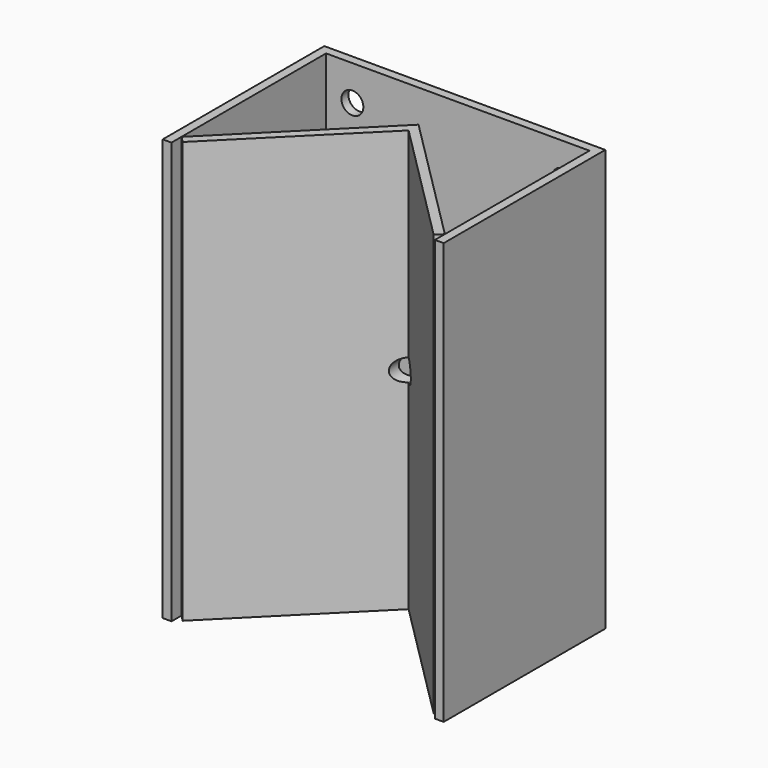
from build123d import *

# Parameters (mm, degrees)
F1_DEPTH = 304.8
F4_DEPTH = 304.8
F6_D     = 15.875
F6_DEPTH = 12.7
F8_D     = 15.875
F8_2_D   = 15.875


with BuildPart() as f1:
    # F0 (on Top) → F1 (new body)
    with BuildSketch(Plane.XY):
        Polygon((-95.25, -139.7), (-95.25, 0), (95.25, 0), (95.25, -139.7), (101.6, -139.7), (101.6, 6.35), (-101.6, 6.35), (-101.6, -139.7), align=None)
    extrude(amount=F1_DEPTH)

    # F6
    with Locations(Plane(origin=(0, 6.35, 0), x_dir=(-1, 0, 0), z_dir=(0, 1, 0))):
        with Locations((-76.2, 279.4), (76.2, 279.4), (-76.2, 25.4), (76.2, 25.4)):
            Hole(F6_D / 2, depth=F6_DEPTH)

    # F8 (through all)
    with Locations(Plane(origin=(0, 6.35, 0), x_dir=(-1, 0, 0), z_dir=(0, 1, 0))):
        with Locations((0, 152.4)):
            Hole(F8_D / 2)


with BuildPart() as f4:
    # F3 (on Top) → F4 (new body, through all)
    with BuildSketch(Plane.XY):
        Polygon((-95.25, -130.719744), (-90.759872, -135.209872), (0, -44.45), (90.759872, -135.209872), (95.25, -130.719744), (0, -35.469744), align=None)
    extrude(amount=F4_DEPTH)

    # F8#2 (through all)
    with Locations(Plane(origin=(0, 6.35, 0), x_dir=(-1, 0, 0), z_dir=(0, 1, 0))):
        with Locations((0, 152.4)):
            Hole(F8_2_D / 2)


solid = Compound([f1.part, f4.part])
